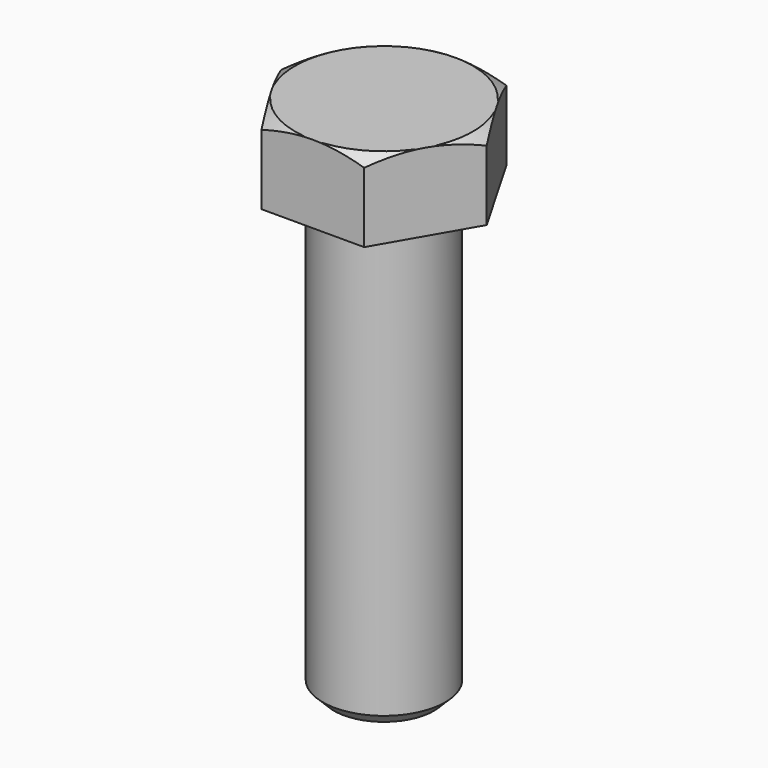
from build123d import *

# Parameters (mm, degrees)
F1_DEPTH = 14
F4_R     = 11
F5_DEPTH = 80
F6_SIZE  = 2


with BuildPart() as f1:
    # F0 (on Top) → F1 (new body)
    with BuildSketch(Plane.XY):
        Polygon((18.475209, 0), (9.237604, 16), (-9.237604, 16), (-18.475209, 0), (-9.237604, -16), (9.237604, -16), align=None)
    extrude(amount=F1_DEPTH)

    # F2 (on Right) → F3 (revolve, cut)
    with BuildSketch(Plane.YZ):
        Polygon((-29.047782, 6.46686), (-16, 14), (-29.047782, 14), align=None)
    revolve(axis=Axis((0, 0, 10.077371), (0, 0, 1)), mode=Mode.SUBTRACT)

    # F4 (on face) → F5 (join)
    with BuildSketch(Plane(origin=(0, 0, 0), x_dir=(1, 0, 0), z_dir=(0, 0, -1))):
        Circle(F4_R)
    extrude(amount=F5_DEPTH)

    # F6
    f6_edges = [f1.edges().sort_by_distance(p)[0] for p in [
        (-11, 0, -80),
    ]]
    chamfer(f6_edges, length=F6_SIZE)


solid = f1.part
